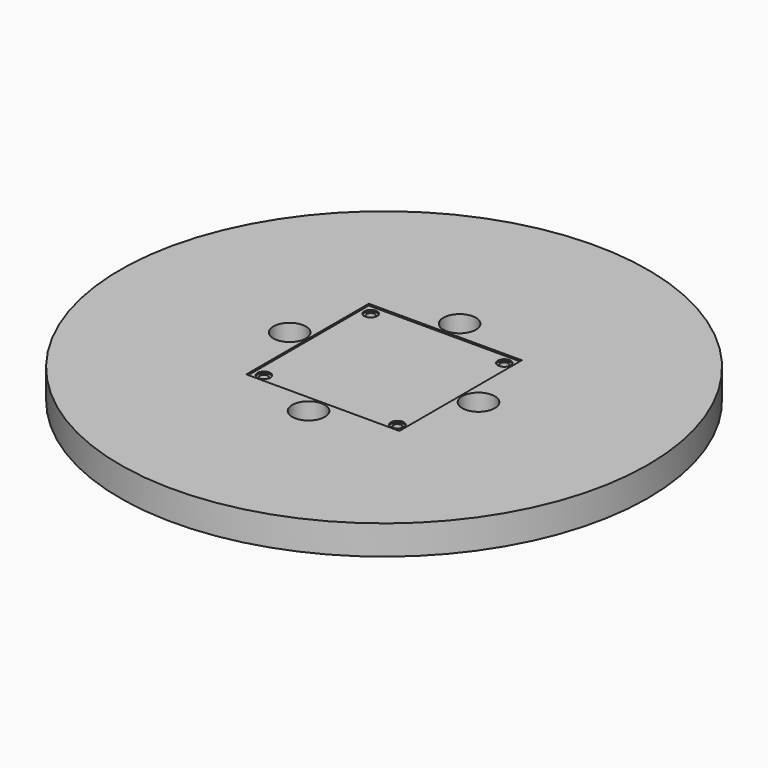
from build123d import *

# Parameters (mm, degrees)
SKETCH003_R      = 162.0844056183
PAD002_DEPTH     = 18
SKETCH009_W      = 94
SKETCH009_H      = 94
POCKET002_DEPTH  = 1
HOLE_D           = 5
HOLE_DEPTH       = 10
HOLE_CBORE_D     = 8
HOLE_CBORE_DEPTH = 1
SKETCH011_R      = 10
POCKET003_DEPTH  = 18.001


with BuildPart() as part:
    # Sketch003 → Pad002 (new body)
    with BuildSketch(Plane.XY):
        Circle(SKETCH003_R)
    extrude(amount=PAD002_DEPTH)

    # Sketch009 (on Face3 of Pad002) → Pocket002 (cut)
    with BuildSketch(Plane.XY.offset(18)):
        Rectangle(SKETCH009_W, SKETCH009_H)
    extrude(amount=-POCKET002_DEPTH, mode=Mode.SUBTRACT)

    # Hole
    with Locations(Plane.XY.offset(17)):
        with Locations((-41, 41), (41, 41), (-41, -41), (41, -41)):
            CounterBoreHole(HOLE_D / 2, HOLE_CBORE_D / 2, HOLE_CBORE_DEPTH, depth=HOLE_DEPTH)

    # Sketch011 (on Face3 of Hole) → Pocket003 (cut, through all)
    with BuildSketch(Plane.XY.offset(18)):
        with Locations((-57.9827560573, 0)):
            Circle(SKETCH011_R)
        with Locations((0, 57.9827560573)):
            Circle(SKETCH011_R)
        with Locations((57.9827560573, 0)):
            Circle(SKETCH011_R)
        with Locations((0, -57.9827560573)):
            Circle(SKETCH011_R)
    extrude(amount=-POCKET003_DEPTH, mode=Mode.SUBTRACT)


with BuildPart() as part_1:
    # Clone004 placement: moved
    add(part.part.moved(Location((0, 0, -24))))


with BuildPart() as part_2:
    # Clone015 placement: moved
    add(part_1.part.moved(Location((0, 0, 24))))


solid = part_2.part
